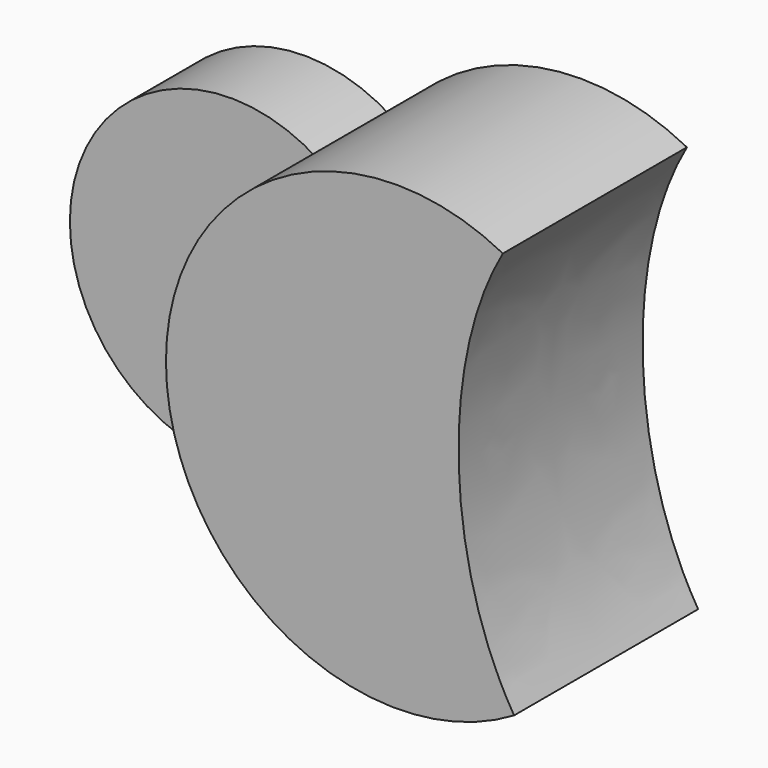
from build123d import *

# Parameters (mm, degrees)
F1_DEPTH = 63.5
F2_DEPTH = 25.4


with BuildPart() as f1:
    # F0 (on Front) → F1 (new body)
    with BuildSketch(Plane.XZ):
        with BuildLine():
            ThreePointArc((-51.7201456431, 37.1017416123), (-37.0596625835, 21.0674271547), (-31.75, 0))
            ThreePointArc((-31.75, 0), (-37.0596625835, -21.0674271547), (-51.7201456431, -37.1017416123))
            ThreePointArc((-51.7201456431, -37.1017416123), (-13.0742953494, -62.2942653631), (32.4391769467, -54.7650663748))
            add(Edge.make_bspline(
                [(29.3510910097, 56.4803165054), (-2.3278547704, 1.7274673746), (32.4391769467, -54.7650663748)],
                knots=[3.874303395, 3.874303395, 3.874303395, 5.452172125, 5.452172125, 5.452172125], degree=2, weights=[1, 0.7046018932, 1]))
            ThreePointArc((29.3510910097, 56.4803165054), (-14.7978357377, 61.9074854399), (-51.7201456431, 37.1017416123))
        make_face()
        with BuildLine():
            Line((-63.5, 0), (-31.75, 0))
            ThreePointArc((-31.75, 0), (-37.0596625835, 21.0674271547), (-51.7201456431, 37.1017416123))
            ThreePointArc((-51.7201456431, 37.1017416123), (-60.5952854568, 19.4865101141), (-63.6514940596, 0))
            Line((-63.6514940596, 0), (-63.5, 0))
        make_face()
        with BuildLine():
            ThreePointArc((-51.7201456431, -37.1017416123), (-37.0596625835, -21.0674271547), (-31.75, 0))
            Line((-31.75, 0), (-63.5, 0))
            Line((-63.5, 0), (-63.6514940596, 0))
            ThreePointArc((-63.6514940596, 0), (-60.5952854568, -19.4865101141), (-51.7201456431, -37.1017416123))
        make_face()
    extrude(amount=F1_DEPTH)

    # F0 (on Front) → F2 (join)
    with BuildSketch(Plane.XZ):
        with BuildLine():
            ThreePointArc((-63.6514940596, 0), (-60.5952854568, 19.4865101141), (-51.7201456431, 37.1017416123))
            ThreePointArc((-51.7201456431, 37.1017416123), (-120.65, 0), (-51.7201456431, -37.1017416123))
            ThreePointArc((-51.7201456431, -37.1017416123), (-60.5952854568, -19.4865101141), (-63.6514940596, 0))
        make_face()
    extrude(amount=F2_DEPTH)


solid = f1.part
